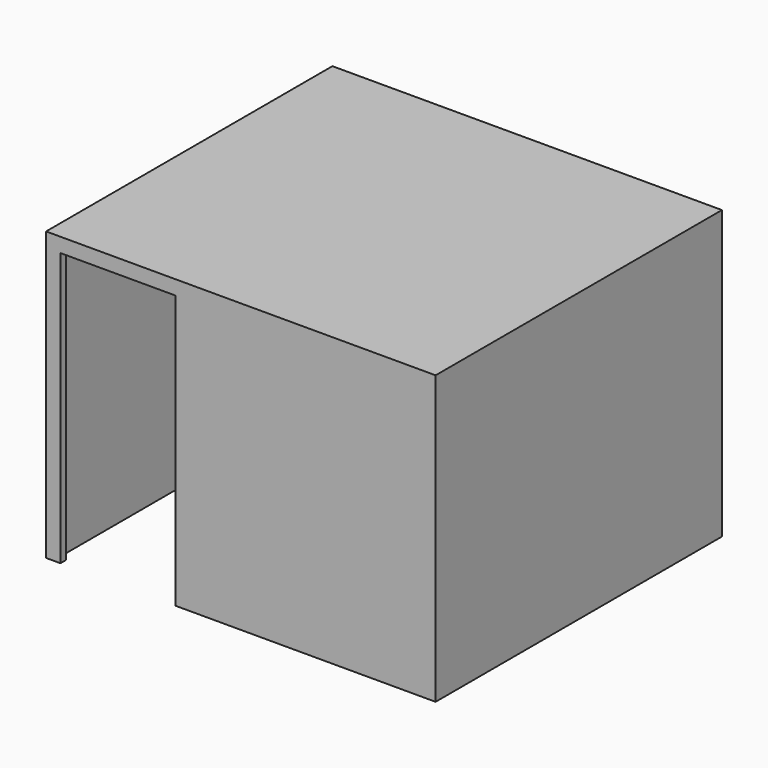
from build123d import *

# Parameters (mm, degrees)
F0_W     = 2710
F0_H     = 2490
F1_DEPTH = 2000
F2_T     = -50
F3_W     = 800
F3_H     = 1900
F4_DEPTH = 50


with BuildPart() as f1:
    # F0 (on Top) → F1 (new body)
    with BuildSketch(Plane.XY):
        with Locations((1355, 1245)):
            Rectangle(F0_W, F0_H)
    extrude(amount=F1_DEPTH)

    # F2
    f2_openings = [f1.faces().sort_by_distance(p)[0] for p in [
        (1355, 1245, 0),
    ]]
    offset(amount=F2_T, openings=f2_openings)

    # F3 (on face) → F4 (cut, through all)
    with BuildSketch(Plane.XZ):
        with Locations((500, 950)):
            Rectangle(F3_W, F3_H)
    extrude(amount=-F4_DEPTH, mode=Mode.SUBTRACT)


solid = f1.part
